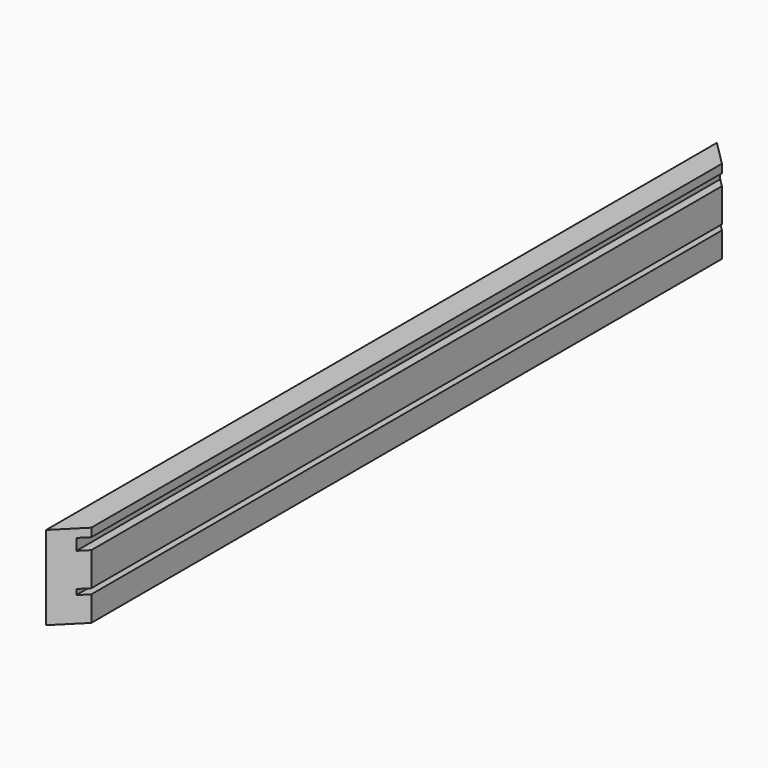
from build123d import *

# Parameters (mm, degrees)
F1_DEPTH = 635
F3_DEPTH = 63.5


with BuildPart() as f1:
    # F0 (on Front) → F1 (new body)
    with BuildSketch(Plane.XZ):
        Polygon((19.05, 63.5), (0, 63.5), (0, 0), (19.05, 0), (19.05, 19.05), (12.7, 19.05), (12.7, 23.114), (19.05, 23.114), (19.05, 48.514), (12.7, 48.514), (12.7, 57.15), (19.05, 57.15), align=None)
    extrude(amount=F1_DEPTH)

    # F2 (on face) → F3 (cut)
    with BuildSketch(Plane.XY.offset(63.5)):
        Polygon((19.05, 0), (0, 0), (19.05, -19.05), align=None)
        Polygon((19.05, -615.95), (0, -635), (19.05, -635), align=None)
    extrude(amount=-F3_DEPTH, mode=Mode.SUBTRACT)


solid = f1.part
